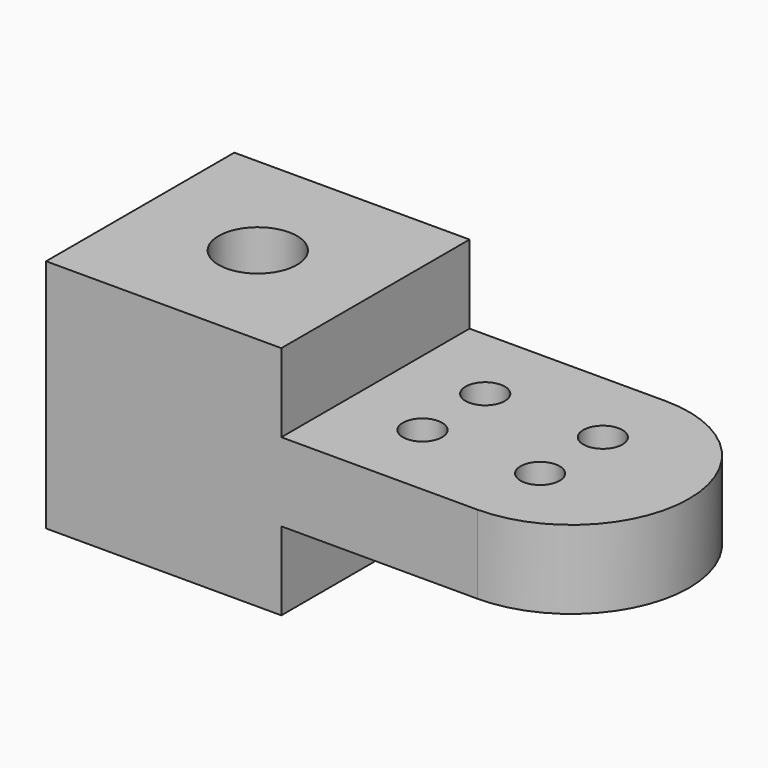
from build123d import *

# Parameters (mm, degrees)
F0_W     = 38.1
F0_H     = 38.1
F1_DEPTH = 38.1
F3_DEPTH = 38.1
F5_DEPTH = 12.7
F8_D     = 12.7
F9_D     = 6.35


with BuildPart() as f1:
    # F0 (on Top) → F1 (new body)
    with BuildSketch(Plane.XY):
        with Locations((-16.83926, 10.473581)):
            Rectangle(F0_W, F0_H)
    extrude(amount=F1_DEPTH)

    # F2 (on face) → F3 (join)
    with BuildSketch(Plane.XZ.offset(8.576419)):
        Polygon((2.21074, 25.4), (2.21074, 19.05), (2.21074, 12.7), (33.96074, 12.7), (33.96074, 25.4), align=None)
    extrude(amount=-F3_DEPTH)

    # F4 (on face) → F5 (join)
    with BuildSketch(Plane.XY.offset(25.4)):
        with BuildLine():
            Line((33.96074, 29.523581), (33.96074, -8.576419))
            ThreePointArc((33.96074, -8.576419), (53.01074, 10.473581), (33.96074, 29.523581))
        make_face()
    extrude(amount=-F5_DEPTH)

    # F8 (through all)
    with Locations(Plane.XY.offset(38.1)):
        with Locations((-16.83926, 10.473581)):
            Hole(F8_D / 2)

    # F9 (through all)
    with Locations(Plane.XY.offset(25.4)):
        with Locations((14.91074, 16.823581), (14.91074, 4.123581), (33.96074, 4.123581), (33.96074, 16.823581)):
            Hole(F9_D / 2)


solid = f1.part
